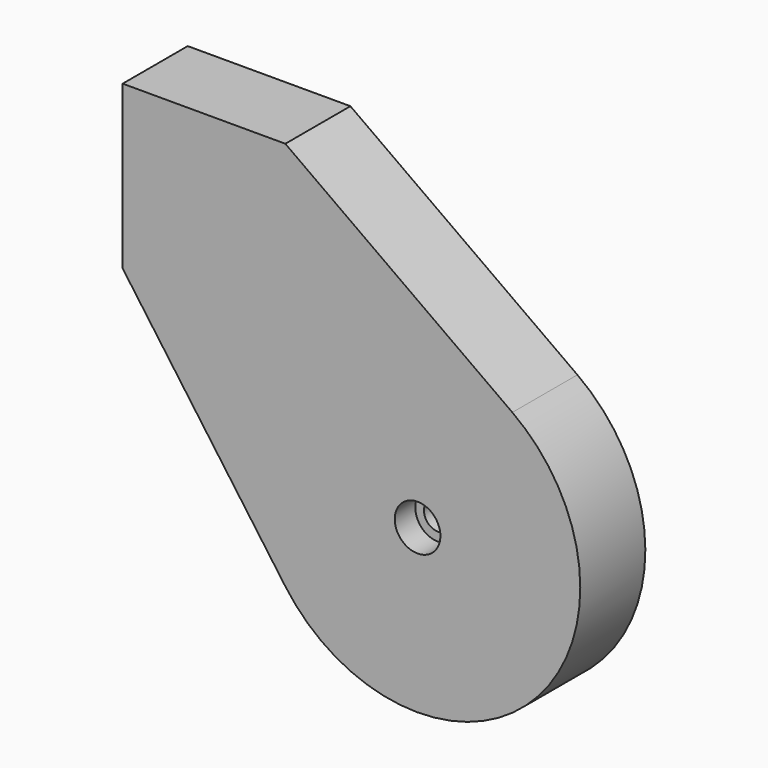
from build123d import *

# Parameters (mm, degrees)
F1_DEPTH       = 25.4
F3_D           = 8.8
F3_CBORE_D     = 14.25
F3_CBORE_DEPTH = 8
F5_DEPTH       = 6.35


with BuildPart() as f1:
    # F0 (on Front) → F1 (new body)
    with BuildSketch(Plane.XZ):
        with BuildLine():
            Line((-50.8, 50.8), (-50.8, 0))
            Line((-50.8, 0), (0, -70.8831193189))
            ThreePointArc((0, -70.8831193189), (77.2120156464, -77.2120156464), (70.8831193189, 0))
            Line((70.8831193189, 0), (0, 50.8))
            Line((0, 50.8), (-50.8, 50.8))
        make_face()
    extrude(amount=F1_DEPTH)

    # F3 (through all)
    with Locations(Plane.XZ.offset(25.4)):
        with Locations((41.2909911622, -41.2909911622)):
            CounterBoreHole(F3_D / 2, F3_CBORE_D / 2, F3_CBORE_DEPTH)

    # F4 (on face) → F5 (cut)
    with BuildSketch(Plane(origin=(0, 0, 0), x_dir=(-1, 0, 0), z_dir=(0, 1, 0))):
        with BuildLine():
            ThreePointArc((-35.4184496458, -30.0302959732), (-52.150808777, -47.8753940486), (-28.5909911622, -41.2909911622))
            ThreePointArc((-28.5909911622, -41.2909911622), (-28.9560645531, -38.2678164153), (-30.0302959732, -35.4184496458))
            Line((-30.0302959732, -35.4184496458), (-38.5969143258, -43.9850679985))
            Line((-38.5969143258, -43.9850679985), (-43.9850679985, -38.5969143258))
            Line((-43.9850679985, -38.5969143258), (-35.4184496458, -30.0302959732))
        make_face()
        with BuildLine():
            Line((-38.5969143258, -43.9850679985), (-30.0302959732, -35.4184496458))
            ThreePointArc((-30.0302959732, -35.4184496458), (-32.3107350411, -32.3107350411), (-35.4184496458, -30.0302959732))
            Line((-35.4184496458, -30.0302959732), (-43.9850679985, -38.5969143258))
            Line((-43.9850679985, -38.5969143258), (-38.5969143258, -43.9850679985))
        make_face()
        with BuildLine():
            ThreePointArc((-35.4184496458, -30.0302959732), (-32.3107350411, -32.3107350411), (-30.0302959732, -35.4184496458))
            Line((-30.0302959732, -35.4184496458), (-20.6364020837, -26.0245557563))
            Line((-20.6364020837, -26.0245557563), (-26.0245557563, -20.6364020837))
            Line((-26.0245557563, -20.6364020837), (-35.4184496458, -30.0302959732))
        make_face()
    extrude(amount=-F5_DEPTH, mode=Mode.SUBTRACT)


solid = f1.part
